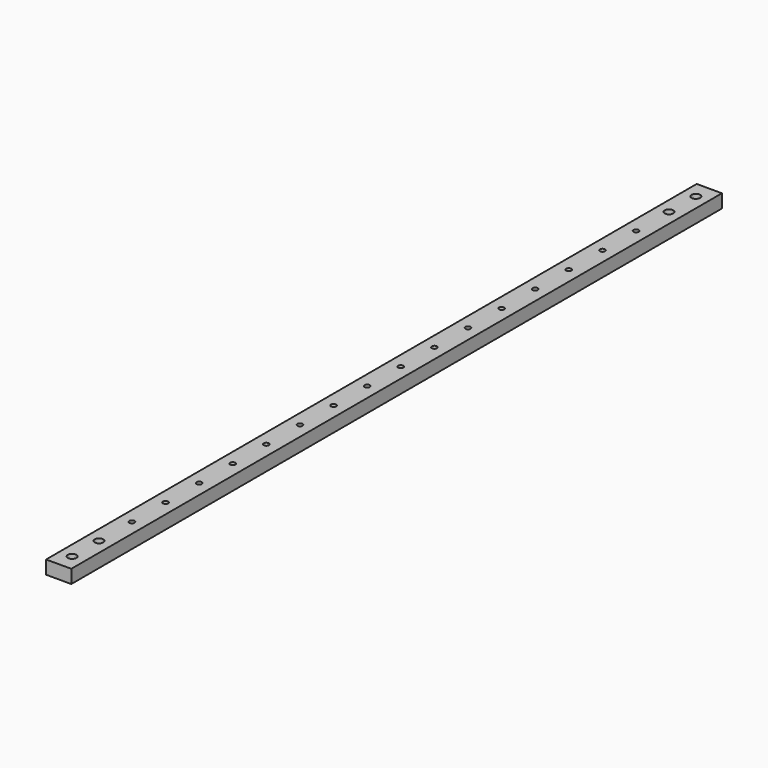
from build123d import *

# Parameters (mm, degrees)
F0_W     = 15
F0_H     = 484
F0_R     = 2.55
F0_R_2   = 1.55
F1_DEPTH = 8


with BuildPart() as f1:
    # F0 (on Top) → F1 (new body)
    with BuildSketch(Plane.XY):
        Rectangle(F0_W, F0_H)
        with Locations((0, -232)):
            Circle(F0_R, mode=Mode.SUBTRACT)
        with Locations((0, -212)):
            Circle(F0_R, mode=Mode.SUBTRACT)
        with Locations((0, -187.5)):
            Circle(F0_R_2, mode=Mode.SUBTRACT)
        with Locations((0, -162.5)):
            Circle(F0_R_2, mode=Mode.SUBTRACT)
        with Locations((0, -137.5)):
            Circle(F0_R_2, mode=Mode.SUBTRACT)
        with Locations((0, -112.5)):
            Circle(F0_R_2, mode=Mode.SUBTRACT)
        with Locations((0, -87.5)):
            Circle(F0_R_2, mode=Mode.SUBTRACT)
        with Locations((0, -62.5)):
            Circle(F0_R_2, mode=Mode.SUBTRACT)
        with Locations((0, -37.5)):
            Circle(F0_R_2, mode=Mode.SUBTRACT)
        with Locations((0, -12.5)):
            Circle(F0_R_2, mode=Mode.SUBTRACT)
        with Locations((0, 12.5)):
            Circle(F0_R_2, mode=Mode.SUBTRACT)
        with Locations((0, 37.5)):
            Circle(F0_R_2, mode=Mode.SUBTRACT)
        with Locations((0, 62.5)):
            Circle(F0_R_2, mode=Mode.SUBTRACT)
        with Locations((0, 87.5)):
            Circle(F0_R_2, mode=Mode.SUBTRACT)
        with Locations((0, 112.5)):
            Circle(F0_R_2, mode=Mode.SUBTRACT)
        with Locations((0, 137.5)):
            Circle(F0_R_2, mode=Mode.SUBTRACT)
        with Locations((0, 162.5)):
            Circle(F0_R_2, mode=Mode.SUBTRACT)
        with Locations((0, 187.5)):
            Circle(F0_R_2, mode=Mode.SUBTRACT)
        with Locations((0, 212)):
            Circle(F0_R, mode=Mode.SUBTRACT)
        with Locations((0, 232)):
            Circle(F0_R, mode=Mode.SUBTRACT)
    extrude(amount=F1_DEPTH)


solid = f1.part
